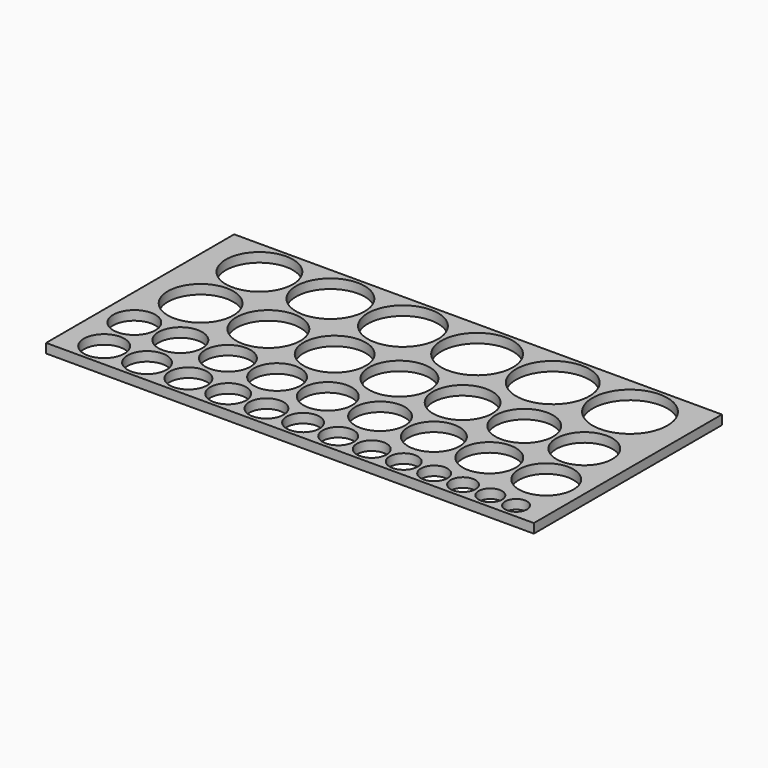
from build123d import *

# Parameters (mm, degrees)
F0_W     = 156.3
F0_H     = 75.340103
F0_R     = 6.5
F0_R_2   = 6.25
F0_R_3   = 6
F0_R_4   = 5.75
F0_R_5   = 5.5
F0_R_6   = 5.25
F0_R_7   = 6.75
F0_R_8   = 7
F0_R_9   = 7.25
F0_R_10  = 7.5
F0_R_11  = 7.75
F0_R_12  = 5
F0_R_13  = 4.75
F0_R_14  = 4.5
F0_R_15  = 4.25
F0_R_16  = 4
F0_R_17  = 3.5
F0_R_18  = 3.75
F0_R_19  = 8
F0_R_20  = 8.25
F0_R_21  = 8.5
F0_R_22  = 8.75
F0_R_23  = 10.5
F0_R_24  = 10.25
F0_R_25  = 10
F0_R_26  = 10.75
F0_R_27  = 11
F0_R_28  = 11.25
F0_R_29  = 9.75
F0_R_30  = 9.5
F0_R_31  = 9.25
F0_R_32  = 9
F0_R_33  = 11.5
F0_R_34  = 11.75
F0_R_35  = 12
F1_DEPTH = 3


with BuildPart() as f1:
    # F0 (on Top) → F1 (new body)
    with BuildSketch(Plane.XY):
        with Locations((-78.15, -37.670051)):
            Rectangle(F0_W, F0_H)
        with Locations((-143.85, -67.640103)):
            Circle(F0_R, mode=Mode.SUBTRACT)
        with Locations((-129.9, -67.890103)):
            Circle(F0_R_2, mode=Mode.SUBTRACT)
        with Locations((-116.45, -68.140103)):
            Circle(F0_R_3, mode=Mode.SUBTRACT)
        with Locations((-103.5, -68.390103)):
            Circle(F0_R_4, mode=Mode.SUBTRACT)
        with Locations((-91.05, -68.640103)):
            Circle(F0_R_5, mode=Mode.SUBTRACT)
        with Locations((-79.1, -68.890103)):
            Circle(F0_R_6, mode=Mode.SUBTRACT)
        with Locations((-145.95, -52.934465)):
            Circle(F0_R_7, mode=Mode.SUBTRACT)
        with Locations((-131, -53.184465)):
            Circle(F0_R_8, mode=Mode.SUBTRACT)
        with Locations((-115.55, -53.434465)):
            Circle(F0_R_9, mode=Mode.SUBTRACT)
        with Locations((-99.6, -53.684465)):
            Circle(F0_R_10, mode=Mode.SUBTRACT)
        with Locations((-83.15, -53.934465)):
            Circle(F0_R_11, mode=Mode.SUBTRACT)
        with Locations((-67.65, -69.140103)):
            Circle(F0_R_12, mode=Mode.SUBTRACT)
        with Locations((-56.7, -69.390103)):
            Circle(F0_R_13, mode=Mode.SUBTRACT)
        with Locations((-46.25, -69.640103)):
            Circle(F0_R_14, mode=Mode.SUBTRACT)
        with Locations((-36.3, -69.890103)):
            Circle(F0_R_15, mode=Mode.SUBTRACT)
        with Locations((-26.85, -70.140103)):
            Circle(F0_R_16, mode=Mode.SUBTRACT)
        with Locations((-9.45, -70.640103)):
            Circle(F0_R_17, mode=Mode.SUBTRACT)
        with Locations((-17.9, -70.390103)):
            Circle(F0_R_18, mode=Mode.SUBTRACT)
        with Locations((-66.2, -54.184465)):
            Circle(F0_R_19, mode=Mode.SUBTRACT)
        with Locations((-48.75, -54.434465)):
            Circle(F0_R_20, mode=Mode.SUBTRACT)
        with Locations((-30.8, -54.684465)):
            Circle(F0_R_21, mode=Mode.SUBTRACT)
        with Locations((-12.35, -54.934465)):
            Circle(F0_R_22, mode=Mode.SUBTRACT)
        with Locations((-139.5, -34.447785)):
            Circle(F0_R_23, mode=Mode.SUBTRACT)
        with Locations((-117.55, -34.734465)):
            Circle(F0_R_24, mode=Mode.SUBTRACT)
        with Locations((-96.1, -34.984465)):
            Circle(F0_R_25, mode=Mode.SUBTRACT)
        with Locations((-138.65, -11.95)):
            Circle(F0_R_26, mode=Mode.SUBTRACT)
        with Locations((-115.7, -12.2)):
            Circle(F0_R_27, mode=Mode.SUBTRACT)
        with Locations((-92.25, -12.45)):
            Circle(F0_R_28, mode=Mode.SUBTRACT)
        with Locations((-75.15, -35.234465)):
            Circle(F0_R_29, mode=Mode.SUBTRACT)
        with Locations((-54.7, -35.484465)):
            Circle(F0_R_30, mode=Mode.SUBTRACT)
        with Locations((-34.75, -35.734465)):
            Circle(F0_R_31, mode=Mode.SUBTRACT)
        with Locations((-15.3, -35.984465)):
            Circle(F0_R_32, mode=Mode.SUBTRACT)
        with Locations((-68.3, -12.7)):
            Circle(F0_R_33, mode=Mode.SUBTRACT)
        with Locations((-43.85, -12.95)):
            Circle(F0_R_34, mode=Mode.SUBTRACT)
        with Locations((-18.9, -13.2)):
            Circle(F0_R_35, mode=Mode.SUBTRACT)
    extrude(amount=F1_DEPTH)


solid = f1.part
